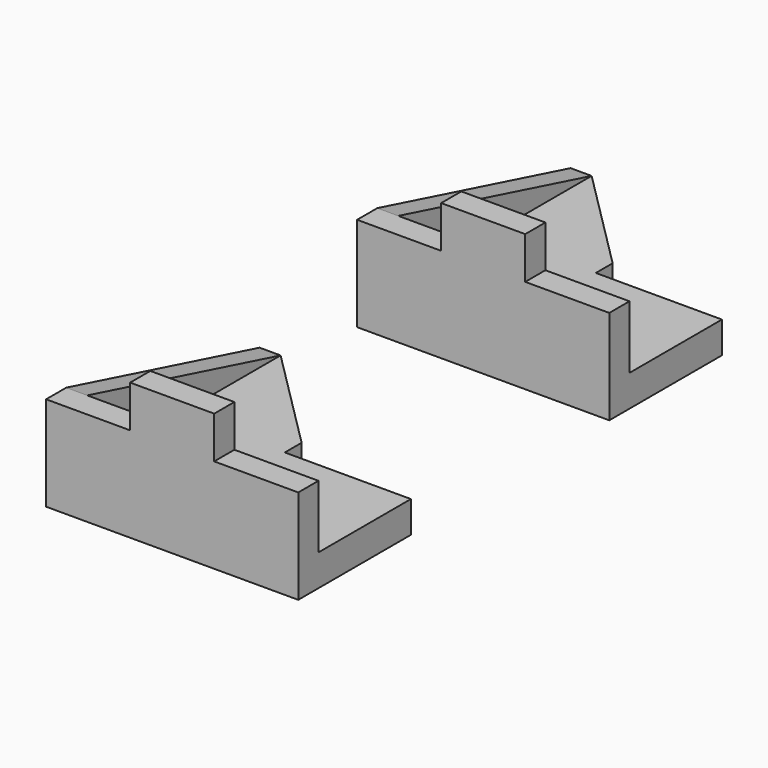
from build123d import *

# Parameters (mm, degrees)
F1_DEPTH = 12
F3_DEPTH = 15
F5_DEPTH = 10
F6_SIZE  = 50


with BuildPart() as f1:
    # F0 (on Front) → F1 (new body)
    with BuildSketch(Plane.XZ):
        Polygon((-60, 0), (0, 0), (60, 0), (60, 45), (20, 45), (20, 65), (-20, 65), (-20, 45), (-60, 45), align=None)
    extrude(amount=F1_DEPTH)

    # F2 (on Top) → F3 (join)
    with BuildSketch(Plane.XY):
        Polygon((-60, 0), (0, 0), (60, 0), (60, 55), (0, 55), (0, 115), (-60, 115), align=None)
    extrude(amount=F3_DEPTH)

    # F4 (on face) → F5 (join)
    with BuildSketch(Plane(origin=(-60, 0, 0), x_dir=(0, -1, 0), z_dir=(-1, 0, 0))):
        Polygon((0, 45), (-115, 15), (0, 15), align=None)
    extrude(amount=-F5_DEPTH)

    # F6
    f6_edges = [f1.edges().sort_by_distance(p)[0] for p in [
        (0, 115, 7.5),
    ]]
    chamfer(f6_edges, length=F6_SIZE)


with BuildPart() as f7_1:
    # F7: copy of F1
    add(f1.part.moved(Location((0, 185, 0))))


solid = Compound([f1.part, f7_1.part])
